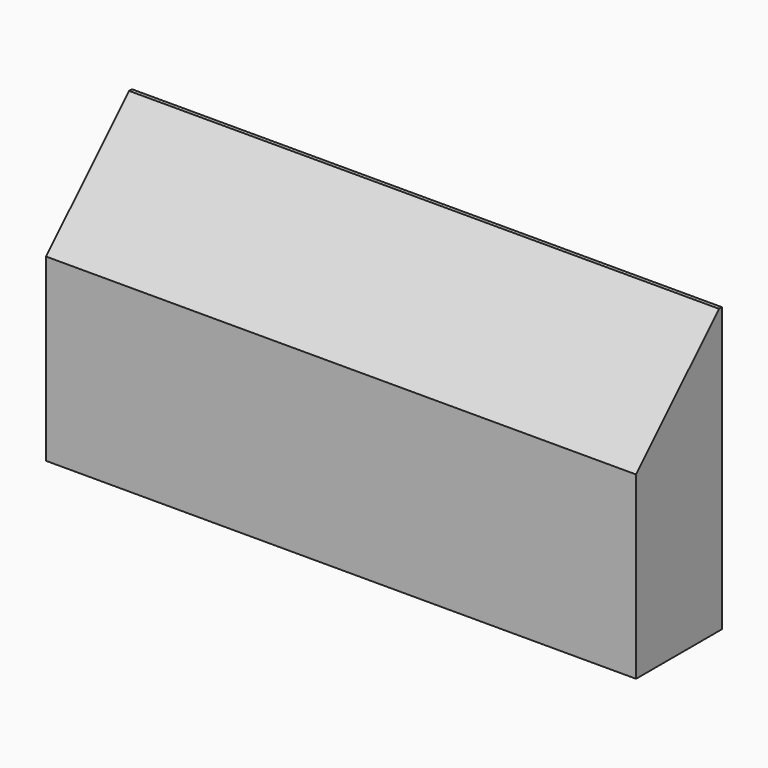
from build123d import *

# Parameters (mm, degrees)
F1_DEPTH = 289.052
F2_T     = -3.556
F4_DEPTH = 3.556


with BuildPart() as f1:
    # F0 (on Right) → F1 (new body, symmetric)
    with BuildSketch(Plane.YZ):
        Polygon((-101.6, 0), (0, 0), (0, 277.876), (-101.6, 176.276), align=None)
    extrude(amount=F1_DEPTH, both=True)

    # F2
    f2_openings = [f1.faces().sort_by_distance(p)[0] for p in [
        (0, 0, 138.938),
        (0, -50.8, 0),
    ]]
    offset(amount=F2_T, openings=f2_openings)

    # F3 (on face) → F4 (join)
    with BuildSketch(Plane(origin=(0, 0, 0), x_dir=(-1, 0, 0), z_dir=(0, 1, 0))):
        Polygon((289.052, 277.876), (-289.052, 277.876), (-289.052, 0), (-273.175836, 0), (-273.175836, 247.904), (273.05, 247.904), (273.05, 0), (289.052, 0), align=None)
    extrude(amount=F4_DEPTH)


solid = f1.part
